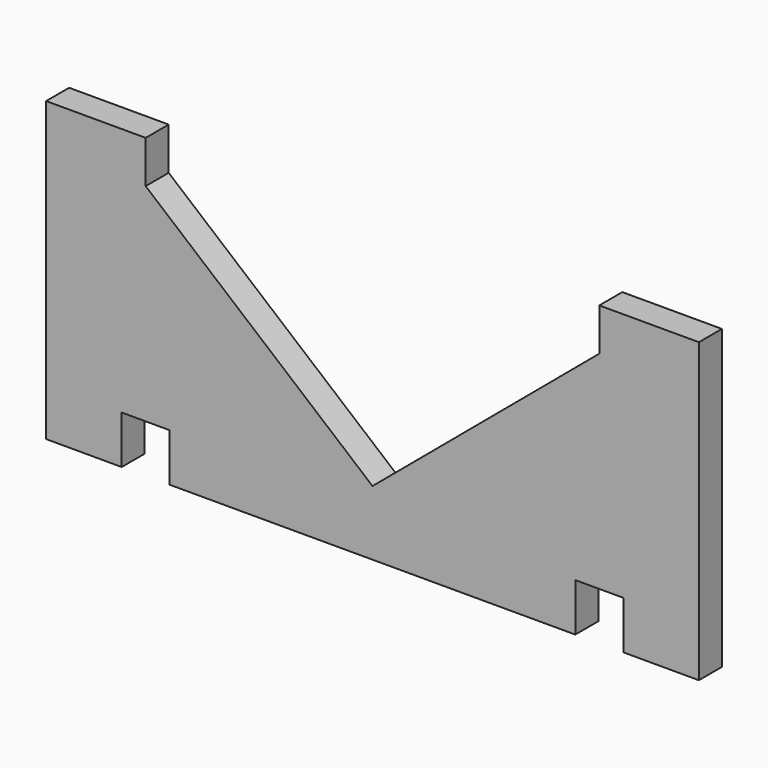
from build123d import *

# Parameters (mm, degrees)
F1_DEPTH = 6
F2_W     = 10
F2_H     = 10
F3_DEPTH = 6.001


with BuildPart() as f1:
    # F0 (on Front) → F1 (new body)
    with BuildSketch(Plane.XZ):
        Polygon((-68, 0), (0, 0), (68, 0), (68, 62), (47.25, 62), (47.25, 53.147458), (0, 13.5), (-47.25, 53.147458), (-47.25, 62), (-68, 62), align=None)
    extrude(amount=F1_DEPTH)

    # F2 (on face) → F3 (cut, through all)
    with BuildSketch(Plane.XZ.offset(6)):
        with Locations((-47.25, 5)):
            Rectangle(F2_W, F2_H)
        with Locations((47.25, 5)):
            Rectangle(F2_W, F2_H)
    extrude(amount=-F3_DEPTH, mode=Mode.SUBTRACT)


solid = f1.part
